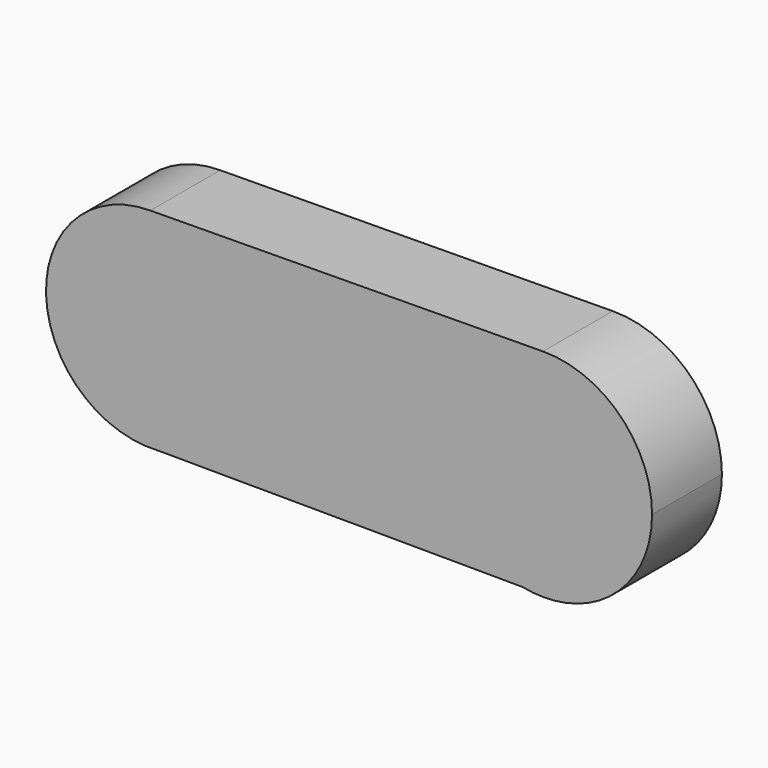
from build123d import *

# Parameters (mm, degrees)
F1_DEPTH = 25


with BuildPart() as f1:
    # F0 (on Front) → F1 (new body)
    with BuildSketch(Plane.XZ):
        with BuildLine():
            ThreePointArc((-63.134142, -29.876497), (-42.769638, -20.7151), (-34.431243, 0))
            ThreePointArc((-34.431243, 0), (-43.188894, 21.142839), (-64.331733, 29.90049))
            ThreePointArc((-64.331733, 29.90049), (-94.223346, 0.728504), (-65.788307, -29.864991))
            Line((-65.788307, -29.864991), (-63.134142, -29.876497))
        make_face()
        with BuildLine():
            ThreePointArc((-64.331733, 29.90049), (-43.188894, 21.142839), (-34.431243, 0))
            ThreePointArc((-34.431243, 0), (-42.769638, -20.7151), (-63.134142, -29.876497))
            Line((-63.134142, -29.876497), (42.205553, -30.333153))
            ThreePointArc((42.205553, -30.333153), (17.532381, 2.939143), (48.051823, 30.945835))
            Line((48.051823, 30.945835), (-64.331733, 29.90049))
        make_face()
        with BuildLine():
            ThreePointArc((-65.788307, -29.864991), (-64.461353, -29.900209), (-63.134142, -29.876497))
            Line((-63.134142, -29.876497), (-65.788307, -29.864991))
        make_face()
        with BuildLine():
            ThreePointArc((79.286842, 0), (70.120618, 21.984489), (48.051823, 30.945835))
            ThreePointArc((48.051823, 30.945835), (17.532381, 2.939143), (42.205553, -30.333153))
            Line((42.205553, -30.333153), (54.210565, -30.385196))
            ThreePointArc((54.210565, -30.385196), (72.208217, -19.698222), (79.286842, 0))
        make_face()
        with BuildLine():
            Line((54.210565, -30.385196), (42.205553, -30.333153))
            ThreePointArc((42.205553, -30.333153), (48.205511, -30.946883), (54.210565, -30.385196))
        make_face()
    extrude(amount=F1_DEPTH)


solid = f1.part
